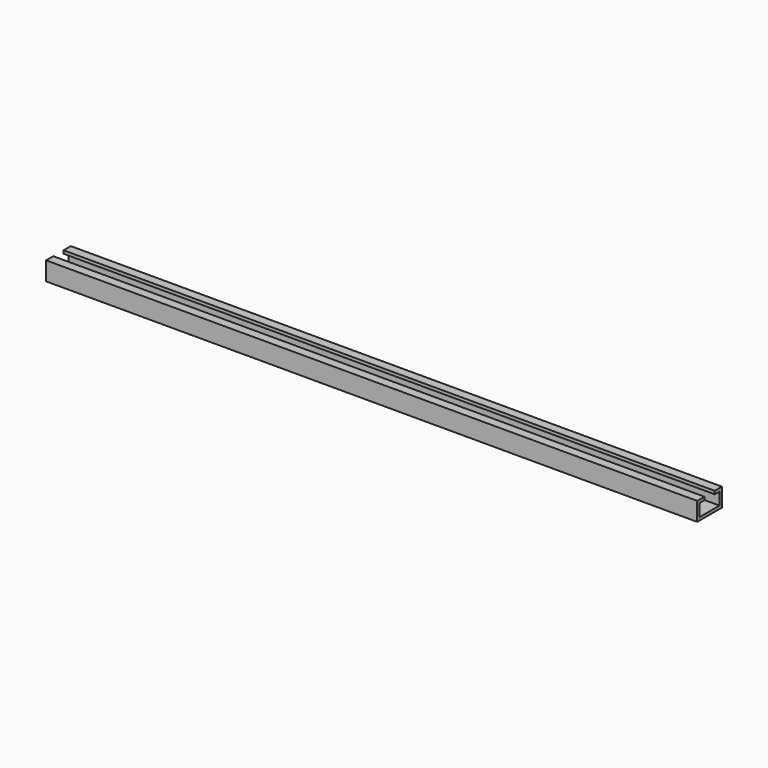
from build123d import *

# Parameters (mm, degrees)
F1_DEPTH = 263.75


with BuildPart() as f1:
    # F0 (on Right) → F1 (new body, symmetric)
    with BuildSketch(Plane.YZ):
        Polygon((-10, 15), (-12.5, 15), (-12.5, 12.5), (-12.5, 0), (12.5, 0), (12.5, 12.5), (12.5, 15), (10, 15), (5.2, 15), (5.2, 12.5), (10, 12.5), (10, 2.5), (-10, 2.5), (-10, 12.5), (-5.2, 12.5), (-5.2, 15), align=None)
        Polygon((-10, 15), (-12.5, 15), (-12.5, 12.5), (-12.5, 0), (12.5, 0), (12.5, 12.5), (12.5, 15), (10, 15), (5.2, 15), (5.2, 12.5), (10, 12.5), (10, 2.5), (-10, 2.5), (-10, 12.5), (-5.2, 12.5), (-5.2, 15), align=None)
    extrude(amount=F1_DEPTH, both=True)


solid = f1.part
